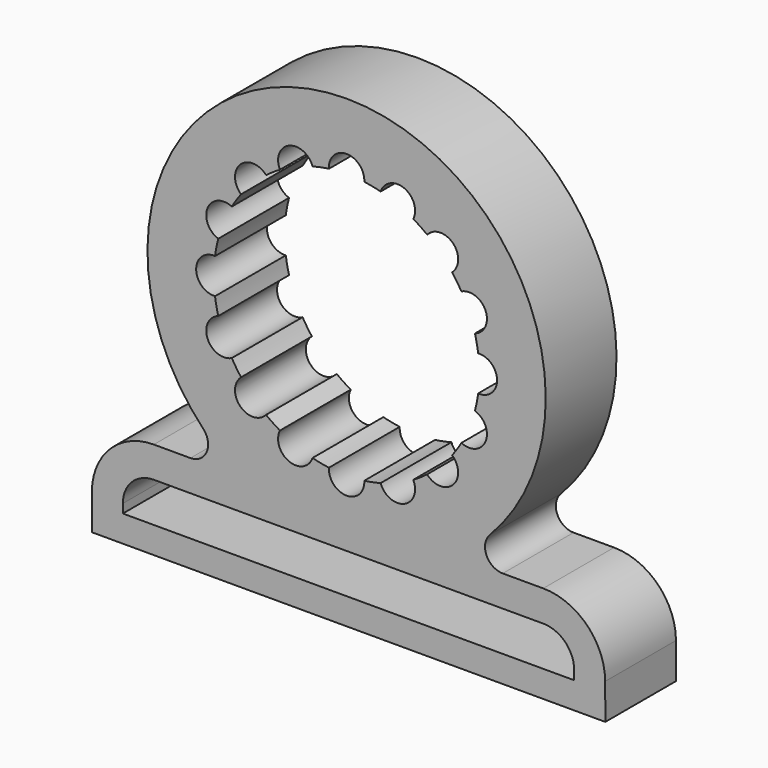
from build123d import *

# Parameters (mm, degrees)
F1_DEPTH = 5


with BuildPart() as f1:
    # F0 (on Front) → F1 (new body, symmetric)
    with BuildSketch(Plane.XZ):
        with BuildLine():
            ThreePointArc((17.642279, -19), (15.801693, -17.782461), (16.202093, -15.612245))
            ThreePointArc((16.202093, -15.612245), (0, 22.5), (-16.202093, -15.612245))
            ThreePointArc((-16.202093, -15.612245), (-15.801693, -17.782461), (-17.642279, -19))
            Line((-17.642279, -19), (-21.781761, -19))
            ThreePointArc((-21.781761, -19), (-26.731509, -21.050253), (-28.781761, -26))
            Line((-28.781761, -26), (-28.781761, -30))
            Line((-28.781761, -30), (29.235102, -30))
            Line((29.235102, -30), (29.218177, -25.970597))
            ThreePointArc((29.218177, -25.970597), (27.15758, -21.039868), (22.218239, -19))
            Line((22.218239, -19), (17.642279, -19))
        make_face()
        with BuildLine():
            Line((25.718239, -27), (-25.281761, -27))
            Line((-25.281761, -27), (-25.281761, -26))
            ThreePointArc((-25.281761, -26), (-24.256635, -23.525126), (-21.781761, -22.5))
            Line((-21.781761, -22.5), (22.218239, -22.5))
            ThreePointArc((22.218239, -22.5), (24.693113, -23.525126), (25.718239, -26))
            Line((25.718239, -26), (25.718239, -27))
        make_face(mode=Mode.SUBTRACT)
        with BuildLine():
            ThreePointArc((-9.101253, 11.923388), (-8.333553, 12.472044), (-7.532875, 12.971345))
            ThreePointArc((-7.532875, 12.971345), (-6.505618, 15.705952), (-3.845579, 14.498673))
            ThreePointArc((-3.845579, 14.498673), (-2.926355, 14.711779), (-1.995551, 14.866667))
            ThreePointArc((-1.995551, 14.866667), (0, 17), (1.995551, 14.866667))
            ThreePointArc((1.995551, 14.866667), (2.926355, 14.711779), (3.845579, 14.498673))
            ThreePointArc((3.845579, 14.498673), (6.505618, 15.705952), (7.532875, 12.971345))
            ThreePointArc((7.532875, 12.971345), (8.333553, 12.472044), (9.101253, 11.923388))
            ThreePointArc((9.101253, 11.923388), (12.020815, 12.020815), (11.923388, 9.101253))
            ThreePointArc((11.923388, 9.101253), (12.472044, 8.333553), (12.971345, 7.532875))
            ThreePointArc((12.971345, 7.532875), (15.705952, 6.505618), (14.498673, 3.845579))
            ThreePointArc((14.498673, 3.845579), (14.711779, 2.926355), (14.866667, 1.995551))
            ThreePointArc((14.866667, 1.995551), (17, 0), (14.866667, -1.995551))
            ThreePointArc((14.866667, -1.995551), (14.711779, -2.926355), (14.498673, -3.845579))
            ThreePointArc((14.498673, -3.845579), (15.705952, -6.505618), (12.971345, -7.532875))
            ThreePointArc((12.971345, -7.532875), (12.472044, -8.333553), (11.923388, -9.101253))
            ThreePointArc((11.923388, -9.101253), (12.020815, -12.020815), (9.101253, -11.923388))
            ThreePointArc((9.101253, -11.923388), (8.333553, -12.472044), (7.532875, -12.971345))
            ThreePointArc((7.532875, -12.971345), (6.505618, -15.705952), (3.845579, -14.498673))
            ThreePointArc((3.845579, -14.498673), (2.926355, -14.711779), (1.995551, -14.866667))
            ThreePointArc((1.995551, -14.866667), (0, -17), (-1.995551, -14.866667))
            ThreePointArc((-1.995551, -14.866667), (-2.926355, -14.711779), (-3.845579, -14.498673))
            ThreePointArc((-3.845579, -14.498673), (-6.505618, -15.705952), (-7.532875, -12.971345))
            ThreePointArc((-7.532875, -12.971345), (-8.333553, -12.472044), (-9.101253, -11.923388))
            ThreePointArc((-9.101253, -11.923388), (-12.020815, -12.020815), (-11.923388, -9.101253))
            ThreePointArc((-11.923388, -9.101253), (-12.472044, -8.333553), (-12.971345, -7.532875))
            ThreePointArc((-12.971345, -7.532875), (-15.705952, -6.505618), (-14.498673, -3.845579))
            ThreePointArc((-14.498673, -3.845579), (-14.711779, -2.926355), (-14.866667, -1.995551))
            ThreePointArc((-14.866667, -1.995551), (-17, 0), (-14.866667, 1.995551))
            ThreePointArc((-14.866667, 1.995551), (-14.711779, 2.926355), (-14.498673, 3.845579))
            ThreePointArc((-14.498673, 3.845579), (-15.705952, 6.505618), (-12.971345, 7.532875))
            ThreePointArc((-12.971345, 7.532875), (-12.472044, 8.333553), (-11.923388, 9.101253))
            ThreePointArc((-11.923388, 9.101253), (-12.020815, 12.020815), (-9.101253, 11.923388))
        make_face(mode=Mode.SUBTRACT)
    extrude(amount=F1_DEPTH, both=True)


solid = f1.part
